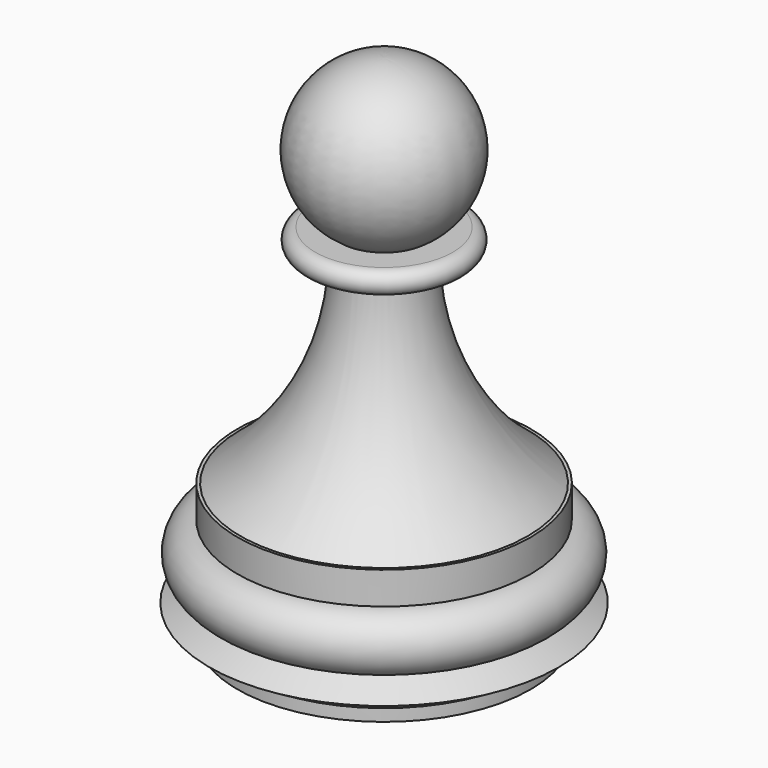
from build123d import *


with BuildPart() as f1:
    # F0 (on Front) → F1 (revolve)
    with BuildSketch(Plane.XZ):
        with BuildLine():
            Line((0, 81.1365321279), (0, 0))
            Line((0, 0), (24.4981832802, 0))
            Line((24.4981832802, 0), (24.4981832802, 2.0195446046))
            Line((24.4981832802, 2.0195446046), (29.1830319065, 4.777465942))
            Line((29.1830319065, 4.777465942), (24.4981832802, 7.3426901363))
            ThreePointArc((24.4981832802, 7.3426901363), (28.9885759092, 12.1479723839), (24.4981832802, 16.9532546316))
            Line((24.4981832802, 16.9532546316), (24.4981832802, 22.3650117874))
            Line((24.4981832802, 22.3650117874), (23.9953958767, 22.3650117874))
            ThreePointArc((23.9953958767, 22.3650117874), (11.6242816995, 37.3513044676), (7.2844462807, 56.2933017969))
            Line((7.2844462807, 56.2933017969), (11.4937714639, 56.2933017969))
            ThreePointArc((11.4937714639, 56.2933017969), (13.3639826777, 58.1635130107), (11.4937714639, 60.0337242245))
            Line((11.4937714639, 60.0337242245), (7.2844462807, 60.0337242245))
            ThreePointArc((7.2844462807, 60.0337242245), (12.9534142574, 75.1896479036), (0, 84.8874971271))
            Line((0, 84.8874971271), (0, 81.1365321279))
        make_face()
    revolve(axis=Axis((0, 0, 83.0120146275), (0, 0, 1)))


solid = f1.part
